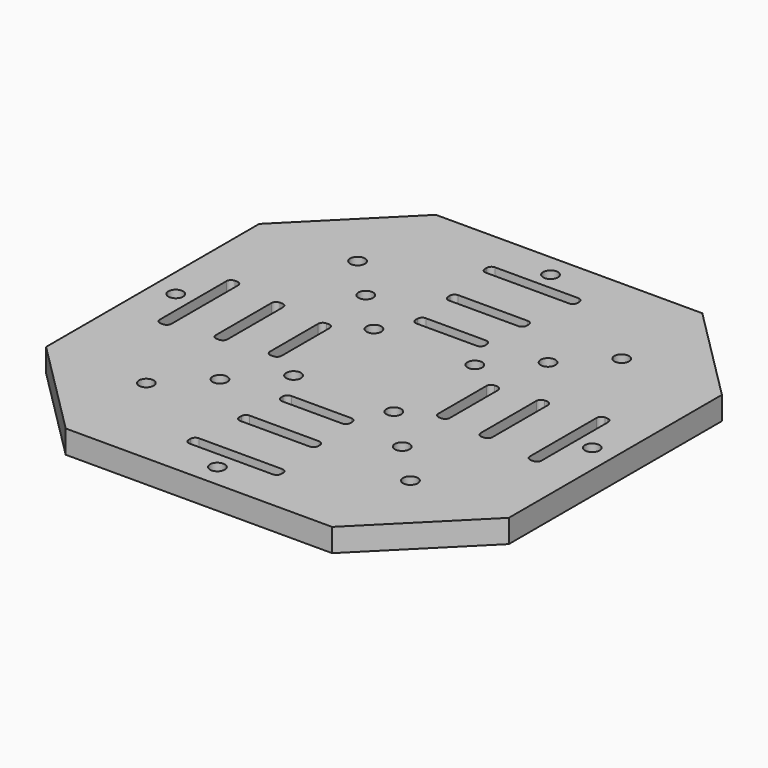
from build123d import *

# Parameters (mm, degrees)
F0_W     = 100
F0_H     = 100
F1_DEPTH = 5
F2_SIZE2 = 21.2132
F2_SIZE  = 21.2132
F3_W     = 2.5
F3_H     = 20
F3_R     = 1.5875
F3_W_2   = 20
F3_H_2   = 2.5
F4_DEPTH = 5
F5_R     = 1
F6_W     = 2.5
F6_H     = 15
F7_DEPTH = 5
F8_R     = 1


with BuildPart() as f1:
    # F0 (on Top) → F1 (new body)
    with BuildSketch(Plane.XY):
        Rectangle(F0_W, F0_H)
    extrude(amount=F1_DEPTH)

    # F2
    f2_edges = [f1.edges().sort_by_distance(p)[0] for p in [
        (50, -50, 2.5),
        (50, 50, 2.5),
        (-50, -50, 2.5),
        (-50, 50, 2.5),
    ]]
    chamfer(f2_edges, length=F2_SIZE, length2=F2_SIZE2)

    # F3 (on face) → F4 (cut)
    with BuildSketch(Plane.XY.offset(5)):
        with Locations((40, 0)):
            Rectangle(F3_W, F3_H)
        with Locations((45, 0)):
            Circle(F3_R)
        with Locations((0, 45)):
            Circle(F3_R)
        with Locations((0, 40)):
            Rectangle(F3_W_2, F3_H_2)
        with Locations((19.6967, 19.6967)):
            Circle(F3_R)
        with Locations((-28.535535, 28.535535)):
            Circle(F3_R)
        with Locations((28.535535, 28.535535)):
            Circle(F3_R)
        with Locations((10.601355, 11.283089)):
            Circle(F3_R)
        with Locations((-19.6967, 19.6967)):
            Circle(F3_R)
        with Locations((-45, 0)):
            Circle(F3_R)
        with Locations((-40, 0)):
            Rectangle(F3_W, F3_H)
        with Locations((-10.857865, 10.857592)):
            Circle(F3_R)
        with Locations((0, -45)):
            Circle(F3_R)
        with Locations((0, -40)):
            Rectangle(F3_W_2, F3_H_2)
        with Locations((10.601355, -10.601355)):
            Circle(F3_R)
        with Locations((19.6967, -19.6967)):
            Circle(F3_R)
        with Locations((28.535535, -28.535535)):
            Circle(F3_R)
        with Locations((-28.535535, -28.535535)):
            Circle(F3_R)
        with Locations((-19.6967, -19.6967)):
            Circle(F3_R)
        with Locations((-10.857865, -10.857865)):
            Circle(F3_R)
    extrude(amount=-F4_DEPTH, mode=Mode.SUBTRACT)

    # F5
    f5_edges = [f1.edges().sort_by_distance(p)[0] for p in [
        (-41.25, 10, 2.5),
        (-10, -38.75, 2.5),
        (38.75, 10, 2.5),
        (-10, 41.25, 2.5),
        (10, -38.75, 2.5),
        (41.25, 10, 2.5),
        (-38.75, 10, 2.5),
        (10, 41.25, 2.5),
        (41.25, -10, 2.5),
        (10, -41.25, 2.5),
        (10, 38.75, 2.5),
        (-38.75, -10, 2.5),
        (-10, 38.75, 2.5),
        (38.75, -10, 2.5),
        (-41.25, -10, 2.5),
        (-10, -41.25, 2.5),
    ]]
    fillet(f5_edges, radius=F5_R)

    # F6 (on face) → F7 (cut)
    with BuildSketch(Plane.XY.offset(5)):
        Polygon((7.499998, 16.930194), (7.499998, 19.430194), (-2e-06, 19.430194), (-7.500002, 19.430194), (-7.500002, 18.180197), (-7.500002, 16.930194), align=None)
        with Locations((-18.180197, 1e-06)):
            Rectangle(F6_W, F6_H)
        Polygon((7.499998, -19.430194), (7.499998, -16.930194), (-7.500002, -16.930194), (-7.500002, -19.430194), (-2e-06, -19.430194), align=None)
        with Locations((18.180192, -1e-06)):
            Rectangle(F6_W, F6_H)
        Polygon((-27.824168, 1e-06), (-27.824168, 8.500001), (-30.324168, 8.500001), (-30.324168, -8.499999), (-27.824168, -8.499999), align=None)
        Polygon((8.499998, -29.430194), (8.499998, -26.930194), (-2e-06, -26.930194), (-8.500002, -26.930194), (-8.500002, -29.430194), align=None)
        Polygon((29.430192, -8.499999), (29.430192, 8.500001), (26.930192, 8.500001), (26.930192, 1e-06), (26.930192, -8.499999), align=None)
        Polygon((8.499998, 26.930197), (8.499998, 29.430197), (-8.500002, 29.430197), (-8.500002, 26.930197), (-2e-06, 26.930197), align=None)
    extrude(amount=-F7_DEPTH, mode=Mode.SUBTRACT)

    # F8
    f8_edges = [f1.edges().sort_by_distance(p)[0] for p in [
        (-30.324168, 8.500001, 2.5),
        (-19.430197, 7.500001, 2.5),
        (-8.500002, 29.430197, 2.5),
        (-7.500002, 19.430194, 2.5),
        (-7.500002, -16.930194, 2.5),
        (-8.500002, -26.930194, 2.5),
        (16.930192, 7.499999, 2.5),
        (26.930192, 8.500001, 2.5),
        (8.499998, 29.430197, 2.5),
        (7.499998, 19.430194, 2.5),
        (-27.824168, 8.500001, 2.5),
        (-16.930197, 7.500001, 2.5),
        (29.430192, 8.500001, 2.5),
        (19.430192, 7.499999, 2.5),
        (7.499998, -16.930194, 2.5),
        (8.499998, -26.930194, 2.5),
        (29.430192, -8.499999, 2.5),
        (19.430192, -7.500001, 2.5),
        (7.499998, -19.430194, 2.5),
        (8.499998, -29.430194, 2.5),
        (7.499998, 16.930194, 2.5),
        (8.499998, 26.930197, 2.5),
        (-27.824168, -8.499999, 2.5),
        (-16.930197, -7.499999, 2.5),
        (-7.500002, -19.430194, 2.5),
        (-8.500002, -29.430194, 2.5),
        (-30.324168, -8.499999, 2.5),
        (-19.430197, -7.499999, 2.5),
        (16.930192, -7.500001, 2.5),
        (26.930192, -8.499999, 2.5),
        (-8.500002, 26.930197, 2.5),
        (-7.500002, 16.930194, 2.5),
    ]]
    fillet(f8_edges, radius=F8_R)


solid = f1.part
